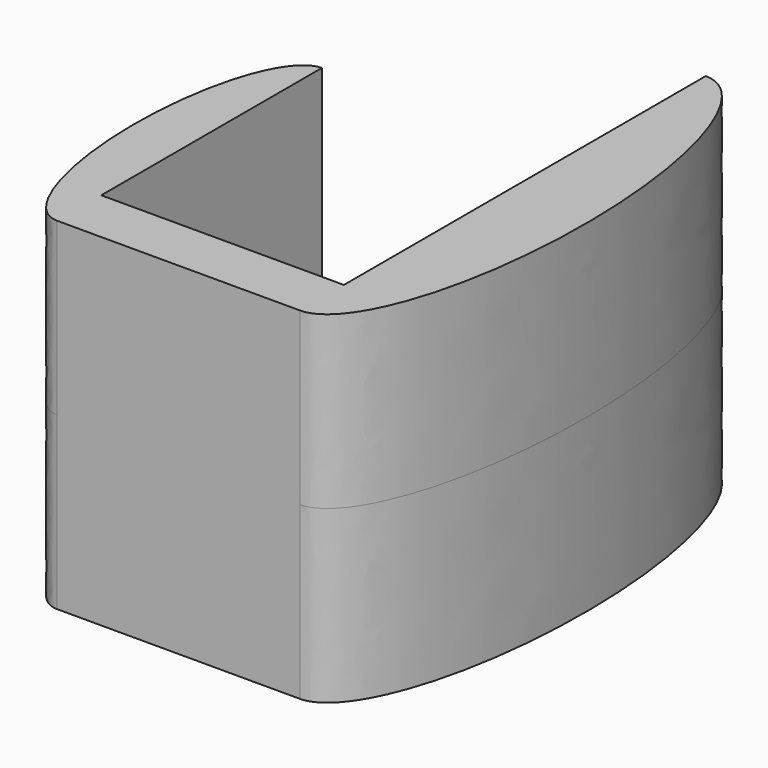
from build123d import *

# Parameters (mm, degrees)
F1_DEPTH      = 15.5
F1_DEPTH_BACK = 15.5


with BuildPart() as f1:
    # F0 (on Top) → F1 (new body, two sides)
    with BuildSketch(Plane.XY) as f1_sk:
        with BuildLine():
            Line((-11, -25.5), (11, -25.5))
            add(Edge.make_bspline(
                [(11, -25.5), (18.5, -25.5), (18.5, -2.5), (18.5, 20.5), (11, 20.5)],
                knots=[3.1415926536, 3.1415926536, 3.1415926536, 4.7123889804, 4.7123889804, 6.2831853072, 6.2831853072, 6.2831853072], degree=2, weights=[1, 0.7071067812, 1, 0.7071067812, 1]))
            Line((11, 20.5), (11, -20.5))
            Line((11, -20.5), (-11, -20.5))
            Line((-11, -20.5), (-11, 4.5))
            add(Edge.make_bspline(
                [(-11, 4.5), (-16, 4.5), (-16, -10.5), (-16, -25.5), (-11, -25.5)],
                knots=[0, 0, 0, 1.5707963268, 1.5707963268, 3.1415926536, 3.1415926536, 3.1415926536], degree=2, weights=[1, 0.7071067812, 1, 0.7071067812, 1]))
        make_face()
    extrude(amount=F1_DEPTH)
    extrude(f1_sk.sketch, amount=-F1_DEPTH_BACK)


solid = f1.part
